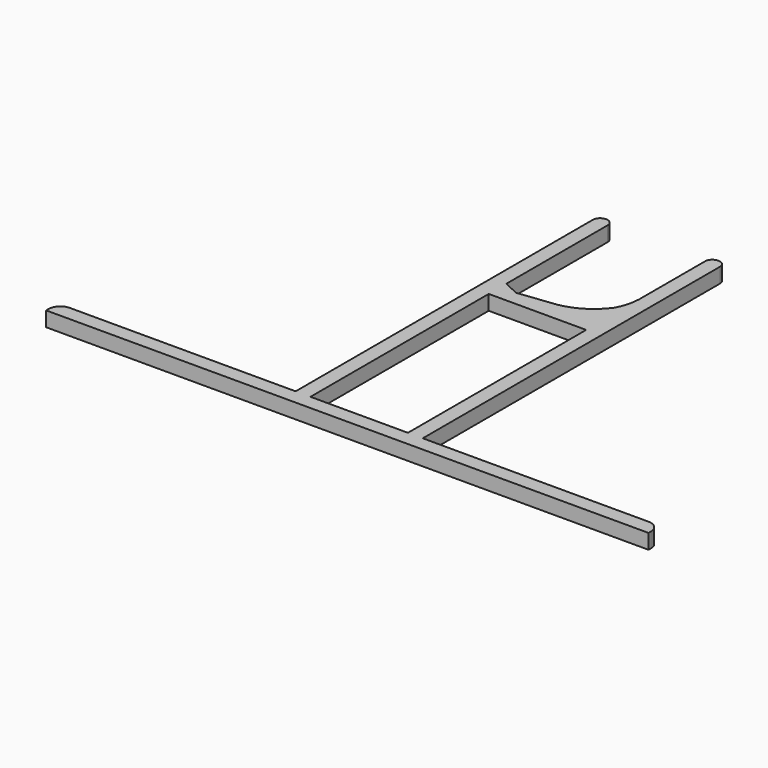
from build123d import *

# Parameters (mm, degrees)
F0_W     = 3.175
F0_H     = 47.625
F1_DEPTH = 3.175


with BuildPart() as f1:
    # F0 (on Top) → F1 (new body)
    with BuildSketch(Plane.XY):
        with BuildLine():
            Line((0, 31.75), (0, 0))
            Line((0, 0), (3.175, 0))
            Line((3.175, 0), (24.003, 0))
            Line((24.003, 0), (27.178, 0))
            Line((27.178, 0), (27.178, 31.75))
            ThreePointArc((27.178, 31.75), (25.5905, 33.3375), (24.003, 31.75))
            Line((24.003, 31.75), (24.003, 14.16871))
            Line((24.003, 14.16871), (24.003, 11.557))
            Line((24.003, 11.557), (24.003, 5.207))
            Line((24.003, 5.207), (24.003, 3.175))
            Line((24.003, 3.175), (6.477, 3.175))
            Line((6.477, 3.175), (3.175, 3.175))
            Line((3.175, 3.175), (3.175, 4.699))
            Line((3.175, 4.699), (3.175, 31.75))
            ThreePointArc((3.175, 31.75), (1.5875, 33.3375), (0, 31.75))
        make_face()
        with Locations((1.5875, -23.8125)):
            Rectangle(F0_W, F0_H)
        Polygon((3.175, -47.625), (0, -47.625), (0, -50.8), (27.178, -50.8), (27.178, -47.625), (24.003, -47.625), align=None)
        with BuildLine():
            Line((0, -50.8), (0, -47.625))
            Line((0, -47.625), (-48.26, -47.625))
            ThreePointArc((-48.26, -47.625), (-50.056051, -48.368949), (-50.8, -50.165))
            Line((-50.8, -50.165), (-50.8, -50.8))
            Line((-50.8, -50.8), (0, -50.8))
        make_face()
        with Locations((25.5905, -23.8125)):
            Rectangle(F0_W, F0_H)
        Polygon((6.477, 3.175), (3.175, 4.699), (3.175, 3.175), align=None)
        with BuildLine():
            Line((27.178, -47.625), (27.178, -50.8))
            Line((27.178, -50.8), (77.978, -50.8))
            Line((77.978, -50.8), (77.978, -50.165))
            ThreePointArc((77.978, -50.165), (77.234051, -48.368949), (75.438, -47.625))
            Line((75.438, -47.625), (27.178, -47.625))
        make_face()
        Polygon((14.541382, 4.110001), (6.477, 3.175), (24.003, 3.175), (24.003, 5.207), align=None)
        with BuildLine():
            ThreePointArc((22.702671, 9.255895), (19.129717, 5.877759), (14.541382, 4.110001))
            Line((14.541382, 4.110001), (24.003, 5.207))
            Line((24.003, 5.207), (24.003, 11.557))
            ThreePointArc((24.003, 11.557), (23.412861, 10.372528), (22.702671, 9.255895))
        make_face()
        with BuildLine():
            ThreePointArc((24.003, 14.16871), (23.633619, 11.637984), (22.702671, 9.255895))
            ThreePointArc((22.702671, 9.255895), (23.412861, 10.372528), (24.003, 11.557))
            Line((24.003, 11.557), (24.003, 14.16871))
        make_face()
    extrude(amount=F1_DEPTH)


solid = f1.part
